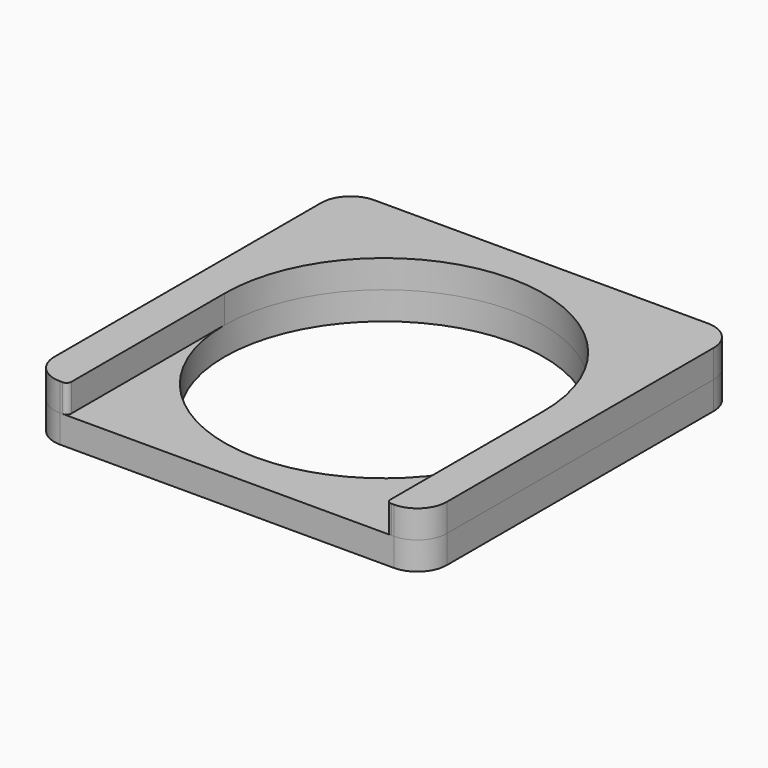
from build123d import *

# Parameters (mm, degrees)
F0_R     = 103.1875
F1_DEPTH = 18.034
F3_DEPTH = 18.034
F4_R     = 3.175


with BuildPart() as f1:
    # F0 (on Top) → F1 (new body)
    with BuildSketch(Plane.XY):
        with BuildLine():
            Line((-107.95, -127), (107.95, -127))
            ThreePointArc((107.95, -127), (121.4203841816, -121.4203841816), (127, -107.95))
            Line((127, -107.95), (127, 107.95))
            ThreePointArc((127, 107.95), (121.4203841816, 121.4203841816), (107.95, 127))
            Line((107.95, 127), (-107.95, 127))
            ThreePointArc((-107.95, 127), (-121.4203841816, 121.4203841816), (-127, 107.95))
            Line((-127, 107.95), (-127, -107.95))
            ThreePointArc((-127, -107.95), (-121.4203841816, -121.4203841816), (-107.95, -127))
        make_face()
        Circle(F0_R, mode=Mode.SUBTRACT)
    extrude(amount=F1_DEPTH)


with BuildPart() as f3:
    # F2 (on face) → F3 (new body)
    with BuildSketch(Plane.XY.offset(18.034)):
        with BuildLine():
            Line((-103.1875, -127), (-103.1875, 0))
            ThreePointArc((-103.1875, 0), (0, 103.1875), (103.1875, 0))
            Line((103.1875, 0), (103.1875, -127))
            Line((103.1875, -127), (107.95, -127))
            ThreePointArc((107.95, -127), (121.4203841816, -121.4203841816), (127, -107.95))
            Line((127, -107.95), (127, 107.95))
            ThreePointArc((127, 107.95), (121.4203841816, 121.4203841816), (107.95, 127))
            Line((107.95, 127), (-107.95, 127))
            ThreePointArc((-107.95, 127), (-121.4203841816, 121.4203841816), (-127, 107.95))
            Line((-127, 107.95), (-127, -107.95))
            ThreePointArc((-127, -107.95), (-121.4203841816, -121.4203841816), (-107.95, -127))
            Line((-107.95, -127), (-103.1875, -127))
        make_face()
    extrude(amount=F3_DEPTH)

    # F4
    f4_edges = [f3.edges().sort_by_distance(p)[0] for p in [
        (-103.1875, -127, 27.051),
        (103.1875, -127, 27.051),
    ]]
    fillet(f4_edges, radius=F4_R)


solid = Compound([f1.part, f3.part])
